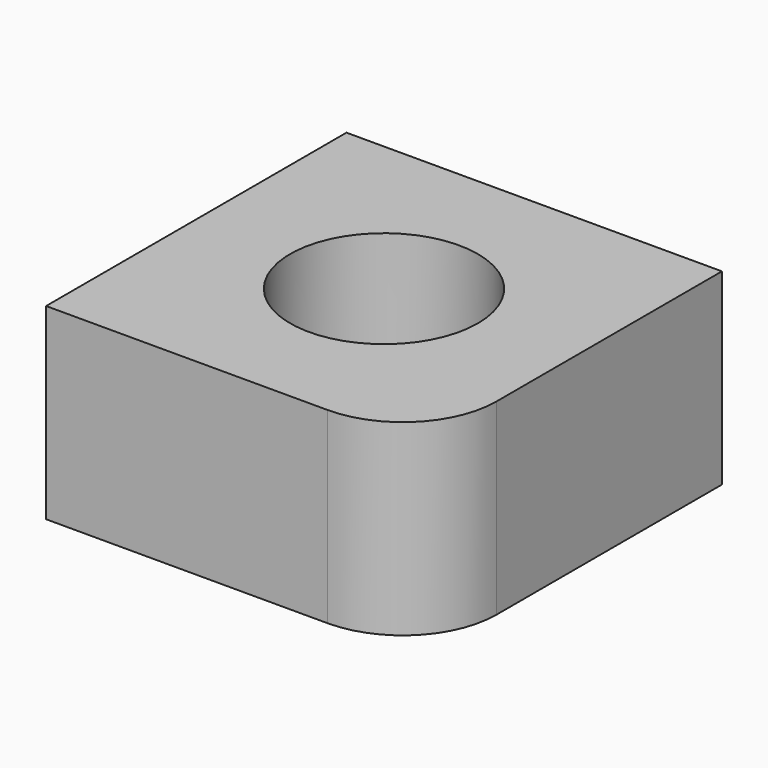
from build123d import *

# Parameters (mm, degrees)
F0_R     = 5
F1_DEPTH = 10
F2_R     = 5


with BuildPart() as f1:
    # F0 (on Top) → F1 (new body)
    with BuildSketch(Plane.XY):
        Polygon((0, 10), (0, 0), (10, 0), (20, 0), (20, 20), (0, 20), align=None)
        with Locations((10, 10)):
            Circle(F0_R, mode=Mode.SUBTRACT)
    extrude(amount=F1_DEPTH)

    # F2
    f2_edges = [f1.edges().sort_by_distance(p)[0] for p in [
        (20, 0, 5),
    ]]
    fillet(f2_edges, radius=F2_R)


solid = f1.part
